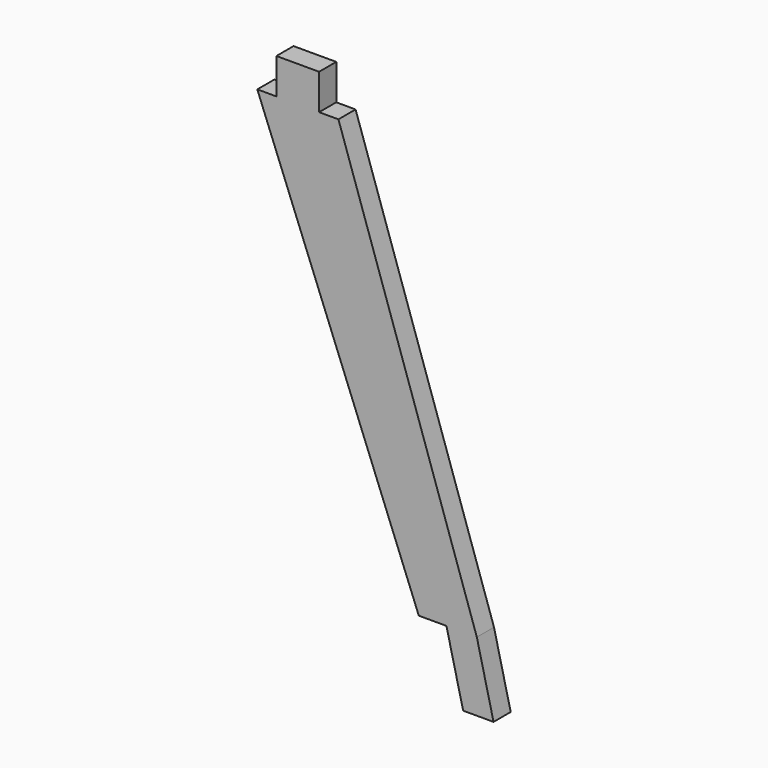
from build123d import *

# Parameters (mm, degrees)
F0_W     = 6.096
F0_H     = 5.08
F1_DEPTH = 3.06


with BuildPart() as f1:
    # F0 (on Front) → F1 (new body)
    with BuildSketch(Plane.XZ):
        Polygon((-64.67925, -18.20163), (-60.735819, -18.20163), (-58.351868, -28.077984), (-54.011868, -28.077984), (-56.395819, -18.20163), (-76.14853, 40.42821), (-78.907189, 40.42821), (-85.003189, 40.42821), (-87.727705, 40.42821), align=None)
        with Locations((-81.955189, 42.96821)):
            Rectangle(F0_W, F0_H)
    extrude(amount=F1_DEPTH)


solid = f1.part
